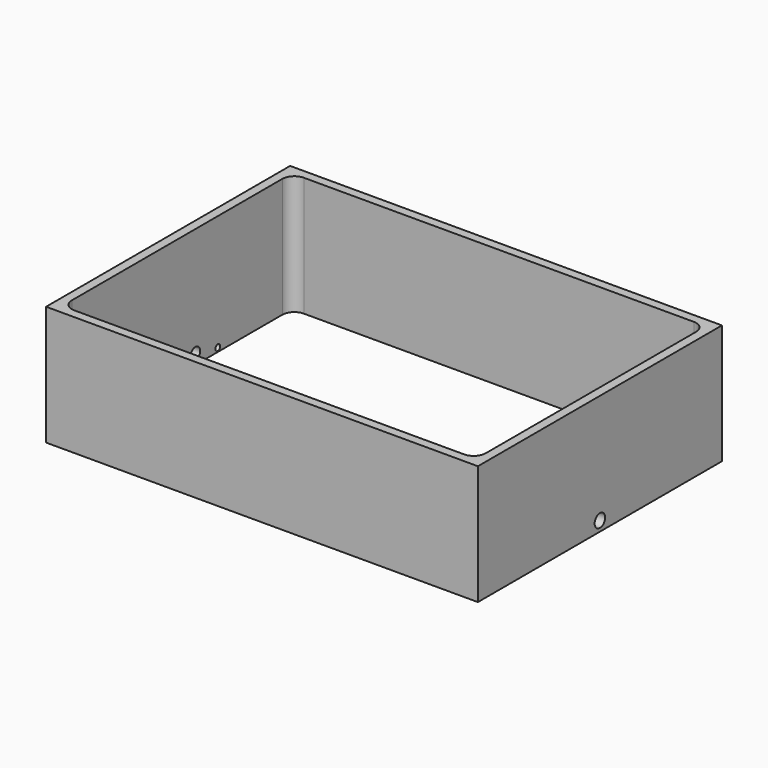
from build123d import *

# Parameters (mm, degrees)
F0_W      = 1833.88
F0_H      = 1295.4
F0_W_2    = 1757.68
F0_H_2    = 1219.2
F1_DEPTH  = 508
F2_R      = 50.8
F3_R      = 50.8
F4_R      = 50.8
F5_R      = 50.8
F6_R      = 25.4
F8_DEPTH  = 50.8
F7_R      = 12.7
F9_DEPTH  = 50.8
F10_R     = 27.856725
F11_DEPTH = 50.8


with BuildPart() as f1:
    # F0 (on Top) → F1 (new body)
    with BuildSketch(Plane.XY):
        with Locations((878.84, 609.6)):
            Rectangle(F0_W, F0_H)
        with Locations((878.84, 609.6)):
            Rectangle(F0_W_2, F0_H_2, mode=Mode.SUBTRACT)
    extrude(amount=F1_DEPTH)

    # F2
    f2_edges = [f1.edges().sort_by_distance(p)[0] for p in [
        (1757.68, 1219.2, 254),
    ]]
    fillet(f2_edges, radius=F2_R)

    # F3
    f3_edges = [f1.edges().sort_by_distance(p)[0] for p in [
        (0, 1219.2, 254),
    ]]
    fillet(f3_edges, radius=F3_R)

    # F4
    f4_edges = [f1.edges().sort_by_distance(p)[0] for p in [
        (1757.68, 0, 254),
    ]]
    fillet(f4_edges, radius=F4_R)

    # F5
    f5_edges = [f1.edges().sort_by_distance(p)[0] for p in [
        (0, 0, 254),
    ]]
    fillet(f5_edges, radius=F5_R)

    # F6 (on face) → F8 (cut)
    with BuildSketch(Plane(origin=(-38.1, 0, 0), x_dir=(0, -1, 0), z_dir=(-1, 0, 0))):
        with Locations((-604.977846, 41.91)):
            Circle(F6_R)
        with Locations((-706.577846, 41.91)):
            Circle(F6_R)
    extrude(amount=-F8_DEPTH, mode=Mode.SUBTRACT)

    # F7 (on face) → F9 (cut)
    with BuildSketch(Plane(origin=(-38.1, 0, 0), x_dir=(0, -1, 0), z_dir=(-1, 0, 0))):
        with Locations((-393.7, 16.51)):
            Circle(F7_R)
        with Locations((-825.5, 16.51)):
            Circle(F7_R)
    extrude(amount=-F9_DEPTH, mode=Mode.SUBTRACT)

    # F10 (on face) → F11 (cut)
    with BuildSketch(Plane.YZ.offset(1795.78)):
        with Locations((609.6, 41.91)):
            Circle(F10_R)
    extrude(amount=-F11_DEPTH, mode=Mode.SUBTRACT)


solid = f1.part
